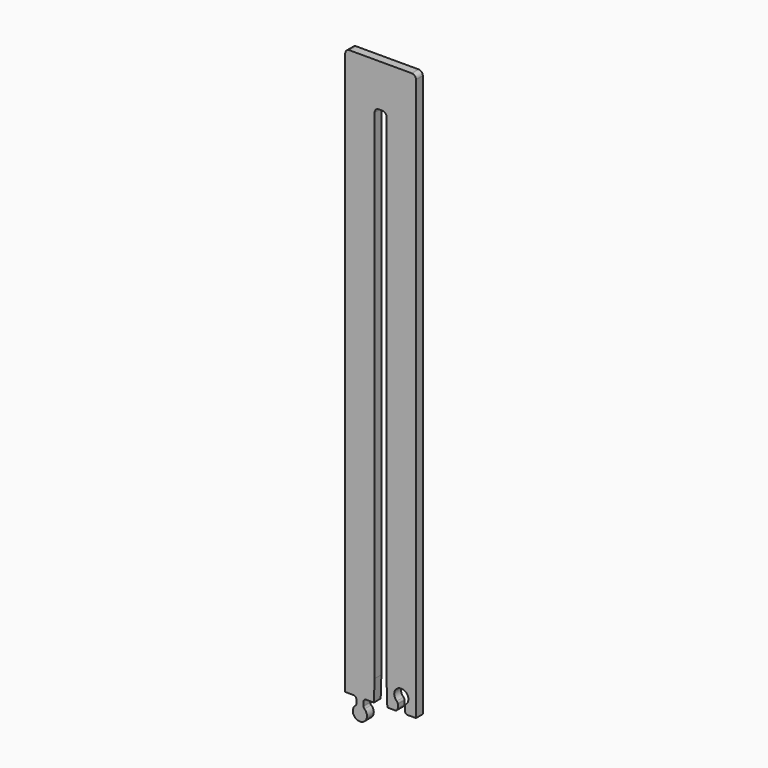
from build123d import *

# Parameters (mm, degrees)
F3_DEPTH = 3
F4_R     = 3
F5_R     = 2


with BuildPart() as f3:
    # F0 (on Front) → F3 (new body, symmetric)
    with BuildSketch(Plane.XZ):
        with BuildLine():
            Line((0, -400), (0, 0))
            Line((0, 0), (-50, 0))
            Line((-50, 0), (-50, -400))
            Line((-50, -400), (-42.125, -400))
            Line((-42.125, -400), (-42.125, -405.6698729811))
            ThreePointArc((-42.125, -405.6698729811), (-39.625, -415), (-37.125, -405.6698729811))
            Line((-37.125, -405.6698729811), (-37.125, -400))
            Line((-37.125, -400), (-29.75, -400))
            Line((-29.75, -400), (-29.25, -385))
            Line((-29.25, -385), (-29.25, -30))
            Line((-29.25, -30), (-20.75, -30))
            Line((-20.75, -30), (-20.75, -385))
            Line((-20.75, -385), (-20.25, -400))
            Line((-20.25, -400), (-12.875, -400))
            Line((-12.875, -400), (-12.875, -394.3301270189))
            ThreePointArc((-12.875, -394.3301270189), (-10.375, -385), (-7.875, -394.3301270189))
            Line((-7.875, -394.3301270189), (-7.875, -400))
            Line((-7.875, -400), (0, -400))
        make_face()
    extrude(amount=F3_DEPTH, both=True)

    # F4
    f4_edges = [f3.edges().sort_by_distance(p)[0] for p in [
        (-50, 0, 0),
        (0, 0, 0),
        (-20.75, 0, -30),
        (-29.25, 0, -30),
    ]]
    fillet(f4_edges, radius=F4_R)

    # F5
    f5_edges = [f3.edges().sort_by_distance(p)[0] for p in [
        (-12.875, 0, -394.330127),
        (-12.875, 0, -400),
        (-37.125, 0, -400),
        (-7.875, 0, -400),
        (-7.875, 0, -394.330127),
        (-42.125, 0, -400),
        (-42.125, 0, -405.669873),
        (-37.125, 0, -405.669873),
    ]]
    fillet(f5_edges, radius=F5_R)


solid = f3.part
